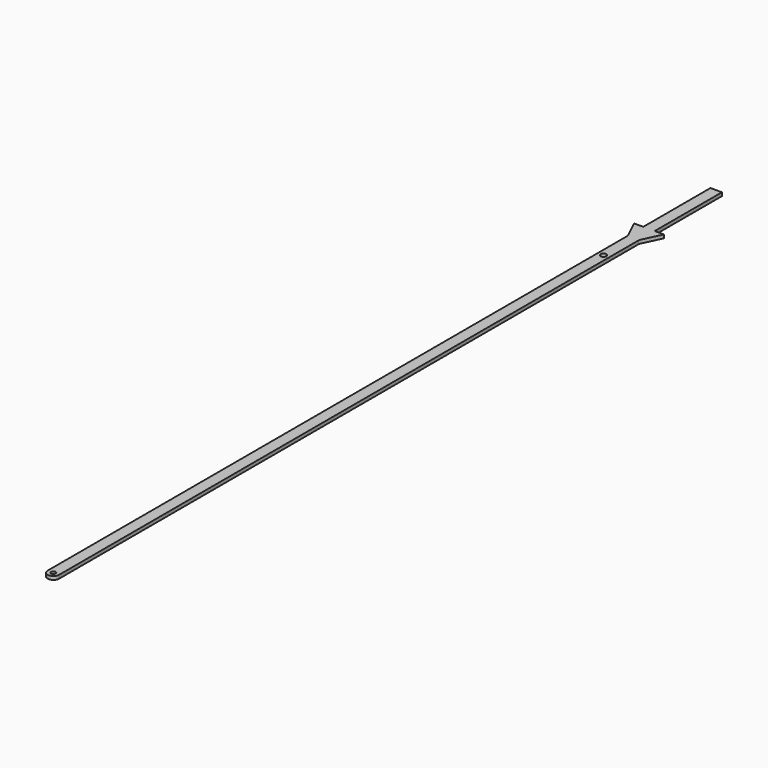
from build123d import *

# Parameters (mm, degrees)
F0_W     = 3
F0_H     = 22
F0_R     = 0.75
F1_DEPTH = 0.9
F2_R     = 0.6
F3_DEPTH = 0.901


with BuildPart() as f1:
    # F0 (on Top) → F1 (new body)
    with BuildSketch(Plane.XY):
        with Locations((0, 97.5)):
            Rectangle(F0_W, F0_H)
        Polygon((1.5, 86.5), (-1.5, 86.5), (-1.5, 81.4138317647), (0, 78.2600417733), (1.5, 81.4138317647), align=None)
        Polygon((-1.5, 81.4138317647), (-1.5, 86.5), (-3.9190743119, 86.5), align=None)
        Polygon((3.9190743119, 86.5), (1.5, 86.5), (1.5, 81.4138317647), align=None)
        with BuildLine():
            Line((0, 78.2600417733), (-1.5, 81.4138317647))
            Line((-1.5, 81.4138317647), (-1.5, -108.5))
            ThreePointArc((-1.5, -108.5), (0, -107), (1.5, -108.5))
            Line((1.5, -108.5), (1.5, 81.4138317647))
            Line((1.5, 81.4138317647), (0, 78.2600417733))
        make_face()
        with Locations((0, 71.609698236)):
            Circle(F0_R, mode=Mode.SUBTRACT)
        with BuildLine():
            ThreePointArc((1.5, -108.5), (0, -107), (-1.5, -108.5))
            ThreePointArc((-1.5, -108.5), (0, -110), (1.5, -108.5))
        make_face()
    extrude(amount=F1_DEPTH)

    # F2 (on Top) → F3 (cut, through all)
    with BuildSketch(Plane.XY):
        with Locations((0, -108.5)):
            Circle(F2_R)
    extrude(amount=F3_DEPTH, mode=Mode.SUBTRACT)


solid = f1.part
